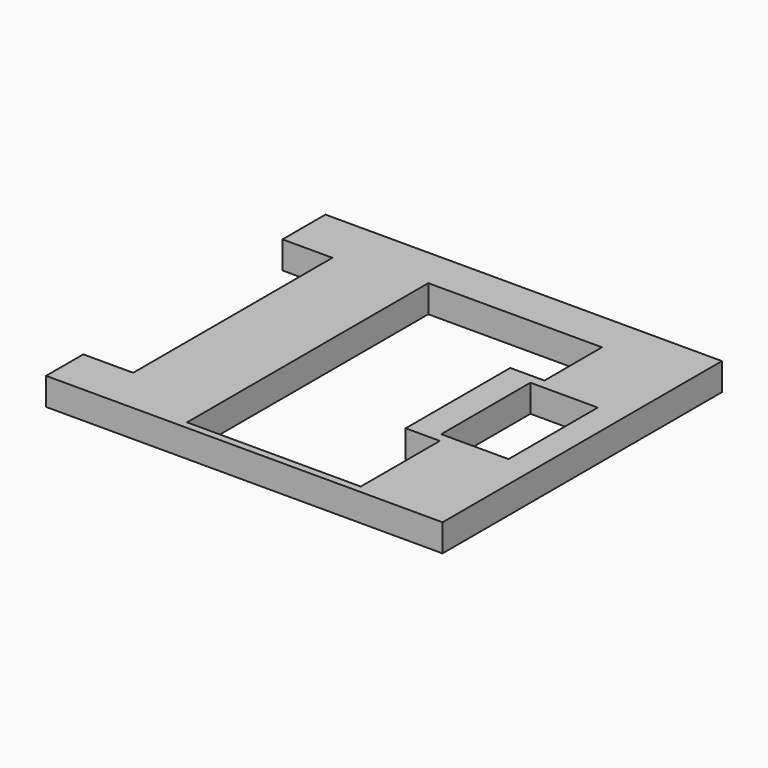
from build123d import *

# Parameters (mm, degrees)
F0_W     = 20.54
F0_H     = 18.09
F0_W_2   = 2.57
F0_H_2   = 12.9
F0_W_3   = 3.49
F0_H_3   = 5.78
F1_DEPTH = 1.42
F2_W     = 0.015
F2_H     = 12.9
F3_DEPTH = 1.421


with BuildPart() as f1:
    # F0 (on Top) → F1 (new body)
    with BuildSketch(Plane.XY):
        with Locations((10.27, 9.045)):
            Rectangle(F0_W, F0_H)
        with Locations((1.3, 8.86)):
            Rectangle(F0_W_2, F0_H_2, mode=Mode.SUBTRACT)
        Polygon((7, 0.38), (7, 16), (16, 16), (16, 12.27), (14.23, 12.27), (14.23, 5.5), (16, 5.5), (16, 0.38), align=None, mode=Mode.SUBTRACT)
        with Locations((17.42, 8.88)):
            Rectangle(F0_W_3, F0_H_3, mode=Mode.SUBTRACT)
    extrude(amount=F1_DEPTH)

    # F2 (on face) → F3 (cut, through all)
    with BuildSketch(Plane.XY.offset(1.42)):
        with Locations((0.0075, 8.86)):
            Rectangle(F2_W, F2_H)
    extrude(amount=-F3_DEPTH, mode=Mode.SUBTRACT)


solid = f1.part
